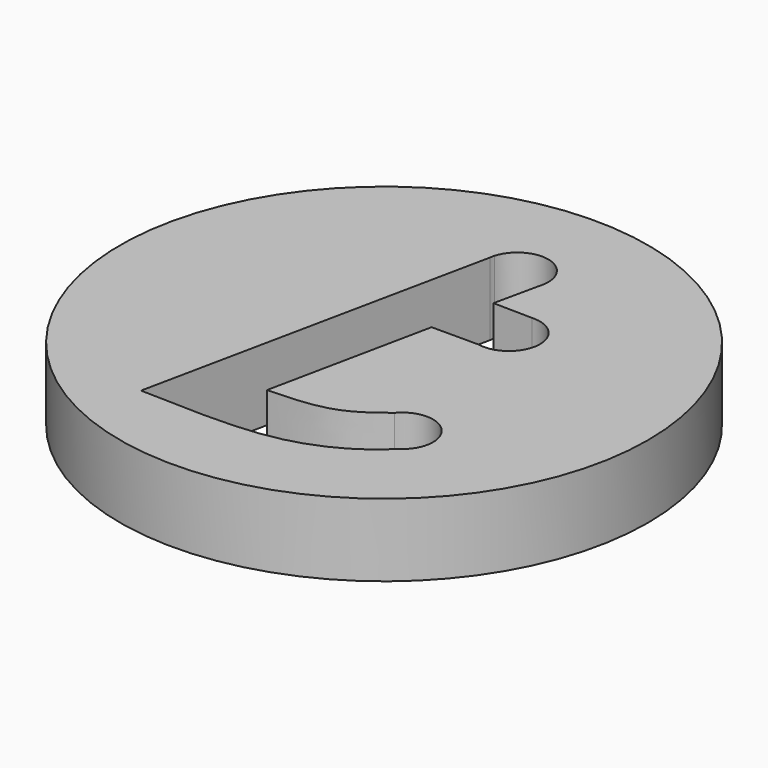
from build123d import *

# Parameters (mm, degrees)
F0_R     = 72.5682102396
F1_DEPTH = 20


with BuildPart() as f1:
    # F0 (on Top) → F1 (new body)
    with BuildSketch(Plane.XY):
        Circle(F0_R)
        with BuildLine():
            ThreePointArc((22.1639949501, -24.0462341013), (35.0578120406, -24.024439202), (33.1385050428, -36.7746256645))
            add(Edge.make_bspline(
                [(-26.8195513636, -50.0101186335), (-16.3397293577, -50.3620265328), (2.2569416099, -51.0958463241), (19.6306451708, -46.8878952171), (29.1549246758, -40.8179573715), (33.1385050428, -36.7746256645)],
                knots=[0, 0, 0, 0, 0.3979017019, 0.7032152945, 1, 1, 1, 1], degree=3))
            Line((-26.8195513636, -50.0101186335), (-6.967373221, 45.1261032148))
            ThreePointArc((-6.967373221, 45.1261032148), (-6.8654000382, 45.7190077179), (-6.7217441894, 46.303214254))
            ThreePointArc((-6.7217441894, 46.303214254), (3.8794477521, 52.1297184336), (9.5709745897, 41.4554529416))
            Line((9.5709745897, 41.4554529416), (6.8737706169, 29.0141291916))
            Line((6.8737706169, 29.0141291916), (17.6235703774, 28.8198585581))
            ThreePointArc((17.6235703774, 28.8198585581), (26.5673663066, 19.7578688539), (16.4828933265, 11.9851892814))
            Line((16.4828933265, 11.9851892814), (3.4721444827, 11.9851892814))
            Line((3.4721444827, 11.9851892814), (-5.8604949154, -32.8977927566))
            add(Edge.make_bspline(
                [(-5.8604949154, -32.8977927566), (-0.251077846, -32.8079528339), (10.9390044639, -32.2469206836), (17.7138596773, -27.5571513921), (22.1639949501, -24.0462341013)],
                knots=[0, 0, 0, 0, 0.5182413567, 1, 1, 1, 1], degree=3))
        make_face(mode=Mode.SUBTRACT)
    extrude(amount=F1_DEPTH)


solid = f1.part
